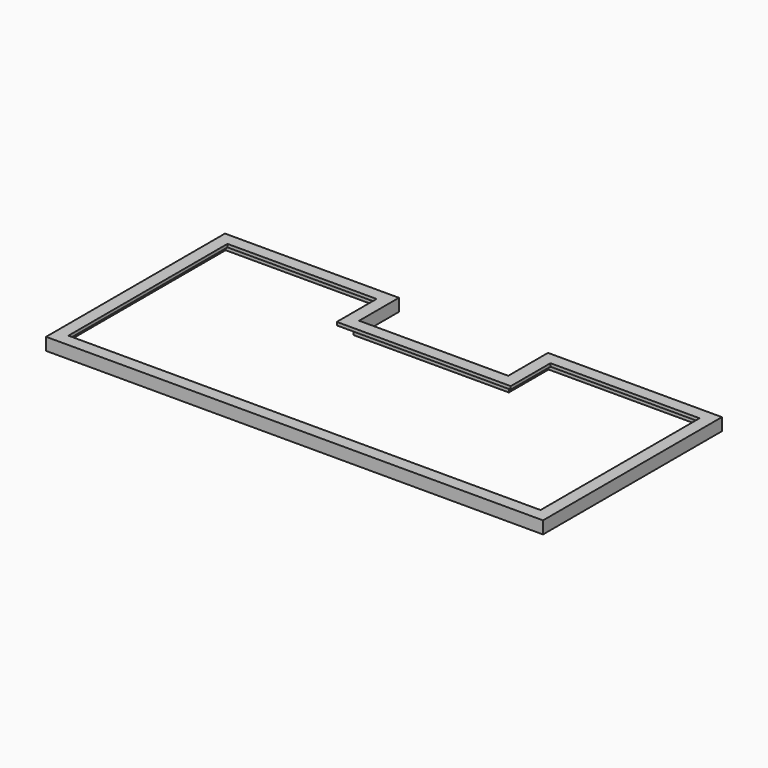
from build123d import *

# Parameters (mm, degrees)
F0_W     = 508
F0_H     = 457.2
F0_W_2   = 152.4
F0_H_2   = 101.6
F1_DEPTH = 12.7
F2_W     = 508
F2_H     = 228.6
F3_DEPTH = 12.701
F5_DEPTH = 12.701
F7_DEPTH = 9.525


with BuildPart() as f1:
    # F0 (on Top) → F1 (new body)
    with BuildSketch(Plane.XY):
        with Locations((76.2, -50.8)):
            Rectangle(F0_W, F0_H)
        with Locations((76.2, -50.8)):
            Rectangle(F0_W_2, F0_H_2, mode=Mode.SUBTRACT)
    extrude(amount=F1_DEPTH)

    # F2 (on face) → F3 (cut, through all)
    with BuildSketch(Plane.XY.offset(12.7)):
        with Locations((76.2, 63.5)):
            Rectangle(F2_W, F2_H)
    extrude(amount=-F3_DEPTH, mode=Mode.SUBTRACT)

    # F4 (on face) → F5 (cut, through all)
    with BuildSketch(Plane.XY.offset(12.7)):
        Polygon((-12.7, -63.5), (-165.1, -63.5), (-165.1, -266.7), (317.5, -266.7), (317.5, -63.5), (165.1, -63.5), (165.1, -114.3), (-12.7, -114.3), align=None)
    extrude(amount=-F5_DEPTH, mode=Mode.SUBTRACT)

    # F6 (on face) → F7 (cut)
    with BuildSketch(Plane(origin=(0, 0, 0), x_dir=(1, 0, 0), z_dir=(0, 0, -1))):
        Polygon((-174.625, 276.225), (-174.625, 53.975), (-3.175, 53.975), (-3.175, 104.775), (155.575, 104.775), (155.575, 53.975), (327.025, 53.975), (327.025, 276.225), align=None)
    extrude(amount=-F7_DEPTH, mode=Mode.SUBTRACT)


solid = f1.part
